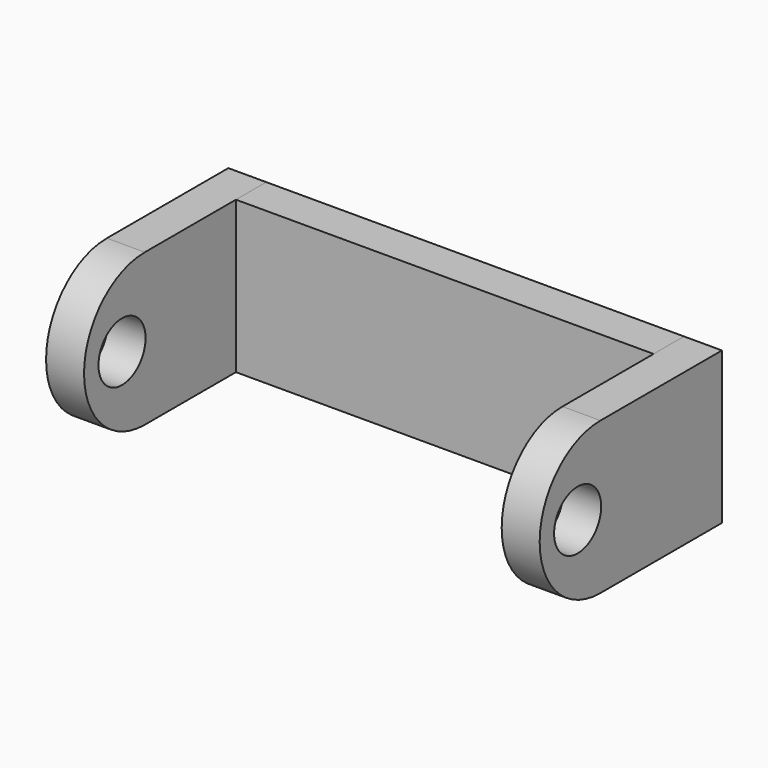
from build123d import *

# Parameters (mm, degrees)
F0_W     = 2
F0_H     = 8
F1_DEPTH = 13
F2_R     = 1.55
F3_DEPTH = 2


with BuildPart() as f1:
    # F0 (on Right) → F1 (new body, symmetric)
    with BuildSketch(Plane.YZ):
        with Locations((-1, 4)):
            Rectangle(F0_W, F0_H)
    extrude(amount=F1_DEPTH, both=True)


with BuildPart() as f3:
    # F2 (on face) → F3 (new body)
    with BuildSketch(Plane(origin=(-13, 0, 0), x_dir=(0, -1, 0), z_dir=(-1, 0, 0))):
        with BuildLine():
            Line((8, 8), (0, 8))
            Line((0, 8), (0, 0))
            Line((0, 0), (8, 0))
            ThreePointArc((8, 0), (12, 4), (8, 8))
        make_face()
        with Locations((9.5, 4)):
            Circle(F2_R, mode=Mode.SUBTRACT)
    extrude(amount=-F3_DEPTH)


with BuildPart() as f4_1:
    # F4: instance of F3
    add(f3.part.mirror(Plane.YZ))


solid = Compound([f1.part, f3.part, f4_1.part])
